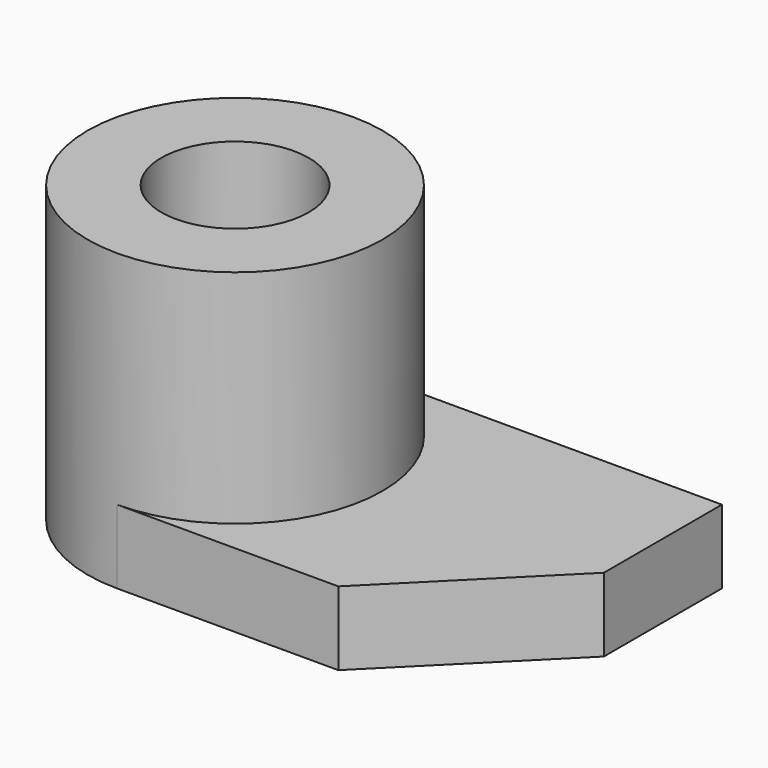
from build123d import *

# Parameters (mm, degrees)
F0_R     = 6.35
F1_DEPTH = 6.35
F2_R     = 12.7
F2_R_2   = 6.35
F3_DEPTH = 19.05


with BuildPart() as f1:
    # F0 (on Top) → F1 (new body)
    with BuildSketch(Plane.XY):
        with BuildLine():
            Line((31.75, 0), (0, 0))
            ThreePointArc((0, 0), (-12.7, -12.7), (0, -25.4))
            Line((0, -25.4), (19.05, -25.4))
            Line((19.05, -25.4), (31.75, -12.7))
            Line((31.75, -12.7), (31.75, 0))
        make_face()
        with Locations((0, -12.7)):
            Circle(F0_R, mode=Mode.SUBTRACT)
    extrude(amount=F1_DEPTH)

    # F2 (on face) → F3 (join)
    with BuildSketch(Plane.XY.offset(6.35)):
        with Locations((0, -12.7)):
            Circle(F2_R)
        with Locations((0, -12.7)):
            Circle(F2_R_2, mode=Mode.SUBTRACT)
    extrude(amount=F3_DEPTH)


solid = f1.part
